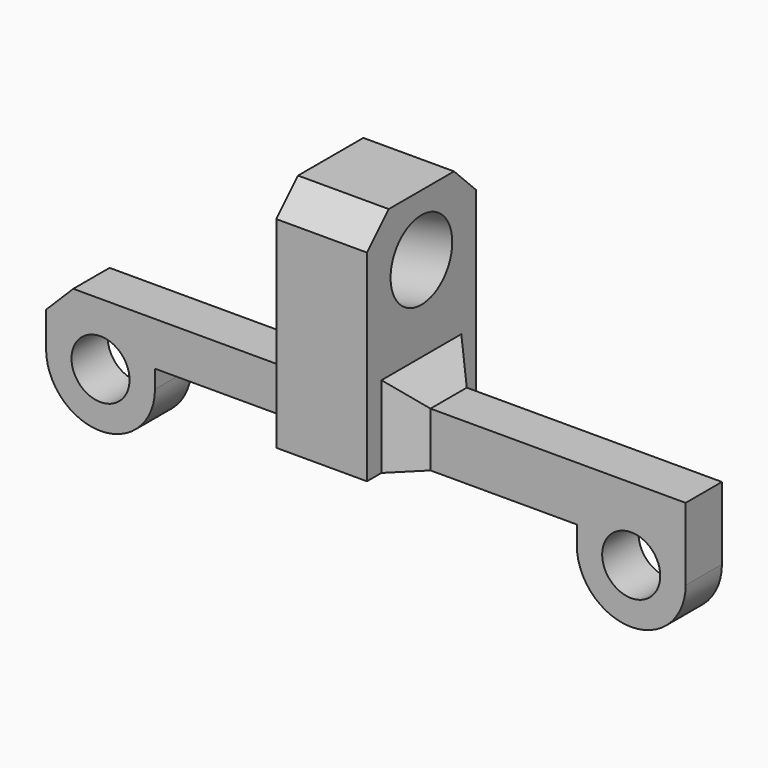
from build123d import *

# Parameters (mm, degrees)
F0_W     = 10
F0_H     = 15
F1_DEPTH = 25.2
F4_R     = 4.25
F5_DEPTH = 25
F6_R     = 3.2
F7_DEPTH = 2.5
F8_SIZE  = 3


with BuildPart() as f1:
    # F0 (on Top) → F1 (new body)
    with BuildSketch(Plane.XY):
        Rectangle(F0_W, F0_H)
    extrude(amount=F1_DEPTH)

    # F4 (on line) → F5 (cut)
    with BuildSketch(Plane(origin=(10.0907595655, 0, 2.2370675377), x_dir=(0, 1, 0), z_dir=(0.9762960071, 0, 0.2164396139))):
        with Locations((0, 16.9178019303)):
            Circle(F4_R)
    extrude(amount=-F5_DEPTH, mode=Mode.SUBTRACT)

    # F6 (on Front) → F7 (join, symmetric)
    with BuildSketch(Plane.XZ):
        with BuildLine():
            ThreePointArc((-34.3731079698, -2), (-28.3731079698, -8), (-22.3731079698, -2))
            ThreePointArc((-22.3731079698, -2), (-28.3731079698, 4), (-34.3731079698, -2))
        make_face()
        with Locations((-28.3731079698, -2)):
            Circle(F6_R, mode=Mode.SUBTRACT)
        with BuildLine():
            ThreePointArc((-34.3731079698, -2), (-28.3731079698, 4), (-22.3731079698, -2))
            Line((-22.3731079698, -2), (-22.3731079698, 0))
            Line((-22.3731079698, 0), (24.1268920302, 0))
            Line((24.1268920302, 0), (24.1268920302, -2))
            ThreePointArc((24.1268920302, -2), (30.1268920302, 4), (36.1268920302, -2))
            Line((36.1268920302, -2), (36.1268920302, 3.4847958965))
            Line((36.1268920302, 3.4847958965), (36.1268920302, 6))
            Line((36.1268920302, 6), (4.5456811786, 6))
            Line((4.5456811786, 6), (4.3161994133, 4.8236340731))
            Line((4.3161994133, 4.8236340731), (-34.3731079698, 4.8236340731))
            Line((-34.3731079698, 4.8236340731), (-34.3731079698, 3.4847958965))
            Line((-34.3731079698, 3.4847958965), (-34.3731079698, -2))
        make_face()
        with BuildLine():
            ThreePointArc((36.1268920302, -2), (30.1268920302, 4), (24.1268920302, -2))
            ThreePointArc((24.1268920302, -2), (30.1268920302, -8), (36.1268920302, -2))
        make_face()
        with Locations((30.1268920302, -2)):
            Circle(F6_R, mode=Mode.SUBTRACT)
    extrude(amount=F7_DEPTH, both=True)

    # F8
    f8_edges = [f1.edges().sort_by_distance(p)[0] for p in [
        (-5, 0, 4.823634),
        (5, 0, 6),
        (0, -7.5, 25.2),
        (0, 7.5, 25.2),
        (5, -2.5, 3),
        (5, 2.5, 3),
        (-5, 2.5, 2.411817),
        (-5, -2.5, 2.411817),
        (-34.373108, 0, 4.823634),
    ]]
    chamfer(f8_edges, length=F8_SIZE)


solid = f1.part
